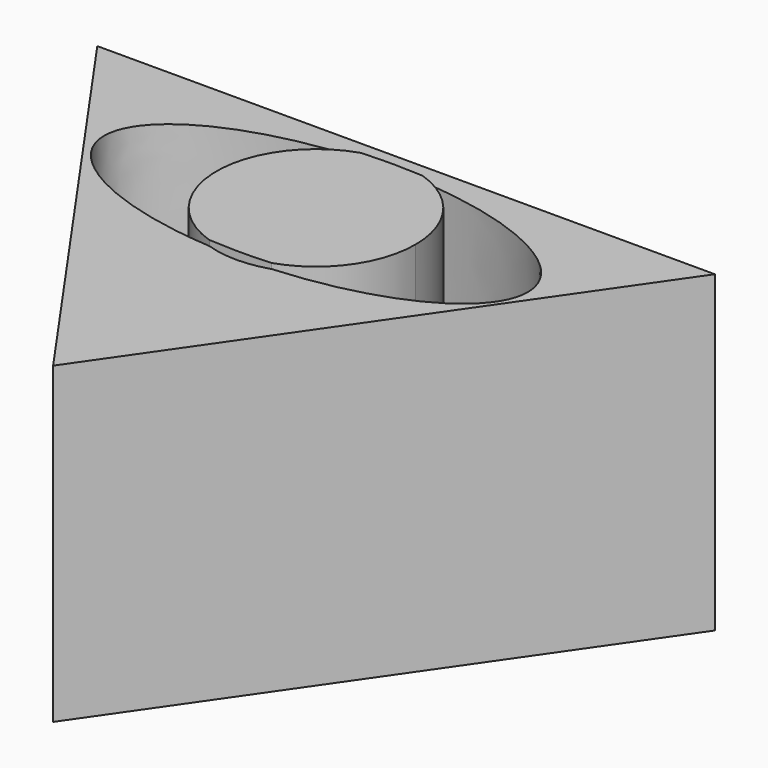
from build123d import *

# Parameters (mm, degrees)
F1_DEPTH = 29.972
F2_DEPTH = 30.48


with BuildPart() as f1:
    # F0 (on Top) → F1 (new body)
    with BuildSketch(Plane.XY):
        Polygon((0, -42.3859059811), (29.3303336948, 0), (-29.6880174428, 0), align=None)
        with BuildLine():
            add(Edge.make_bspline(
                [(-20.2366822645, -10.9853828326), (-20.2366822645, -18.8516584872), (-2.9746881475, -20.0079605257)],
                knots=[0, 0, 0, 1.4232668939, 1.4232668939, 1.4232668939], degree=2, weights=[1, 0.7572961289, 1]))
            add(Edge.make_bspline(
                [(-2.9746881475, -1.9628051395), (-20.2366822645, -3.119107178), (-20.2366822645, -10.9853828326)],
                knots=[4.8599184133, 4.8599184133, 4.8599184133, 6.2831853072, 6.2831853072, 6.2831853072], degree=2, weights=[1, 0.7572961289, 1]))
            ThreePointArc((-2.9746881475, -1.9628051395), (0, -1.4850840056), (2.9746881475, -1.9628051395))
            add(Edge.make_bspline(
                [(2.9746881475, -20.0079605257), (20.2366822645, -18.8516584872), (20.2366822645, -10.9853828326), (20.2366822645, -3.119107178), (2.9746881475, -1.9628051395)],
                knots=[1.7183257597, 1.7183257597, 1.7183257597, 3.1415926536, 3.1415926536, 4.5648595475, 4.5648595475, 4.5648595475], degree=2, weights=[1, 0.7572961289, 1, 0.7572961289, 1]))
            ThreePointArc((2.9746881475, -20.0079605257), (0, -20.4856816596), (-2.9746881475, -20.0079605257))
        make_face(mode=Mode.SUBTRACT)
    extrude(amount=F1_DEPTH)

    # F0 (on Top) → F2 (join)
    with BuildSketch(Plane.XY):
        with BuildLine():
            ThreePointArc((-2.9746881475, -1.9628051395), (-9.500298827, -10.9853828326), (-2.9746881475, -20.0079605257))
            add(Edge.make_bspline(
                [(-2.9746881475, -20.0079605257), (0, -20.20722128), (2.9746881475, -20.0079605257)],
                knots=[1.4232668939, 1.4232668939, 1.4232668939, 1.7183257597, 1.7183257597, 1.7183257597], degree=2, weights=[1, 0.9891372569, 1]))
            ThreePointArc((2.9746881475, -20.0079605257), (7.6979251789, -16.5529339767), (9.500298827, -10.9853828326))
            ThreePointArc((9.500298827, -10.9853828326), (7.6979251789, -5.4178316885), (2.9746881475, -1.9628051395))
            add(Edge.make_bspline(
                [(2.9746881475, -1.9628051395), (0, -1.7635443852), (-2.9746881475, -1.9628051395)],
                knots=[4.5648595475, 4.5648595475, 4.5648595475, 4.8599184133, 4.8599184133, 4.8599184133], degree=2, weights=[1, 0.9891372569, 1]))
        make_face()
    extrude(amount=F2_DEPTH)


solid = f1.part
